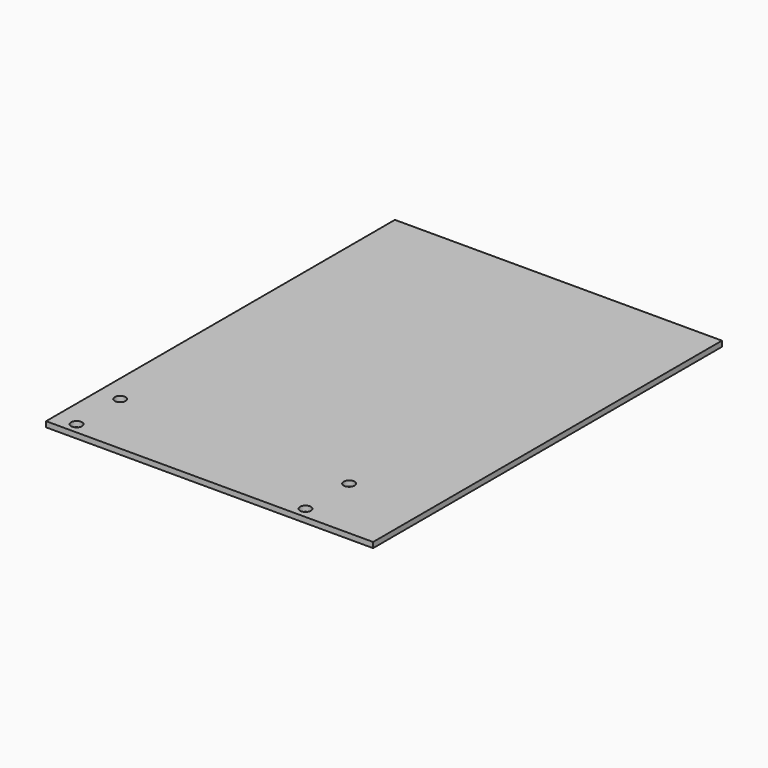
from build123d import *

# Parameters (mm, degrees)
F0_W     = 381
F0_H     = 508
F1_DEPTH = 6.35
F3_D     = 12.7
F3_DEPTH = 25.4


with BuildPart() as f1:
    # F0 (on Top) → F1 (new body)
    with BuildSketch(Plane.XY):
        with Locations((190.5, 254)):
            Rectangle(F0_W, F0_H)
    extrude(amount=F1_DEPTH)

    # F3
    with Locations(Plane.XY.offset(6.35)):
        with Locations((25.4, 12.7), (25.4, 76.2), (292.1, 76.2), (292.1, 12.7)):
            Hole(F3_D / 2, depth=F3_DEPTH)


solid = f1.part
